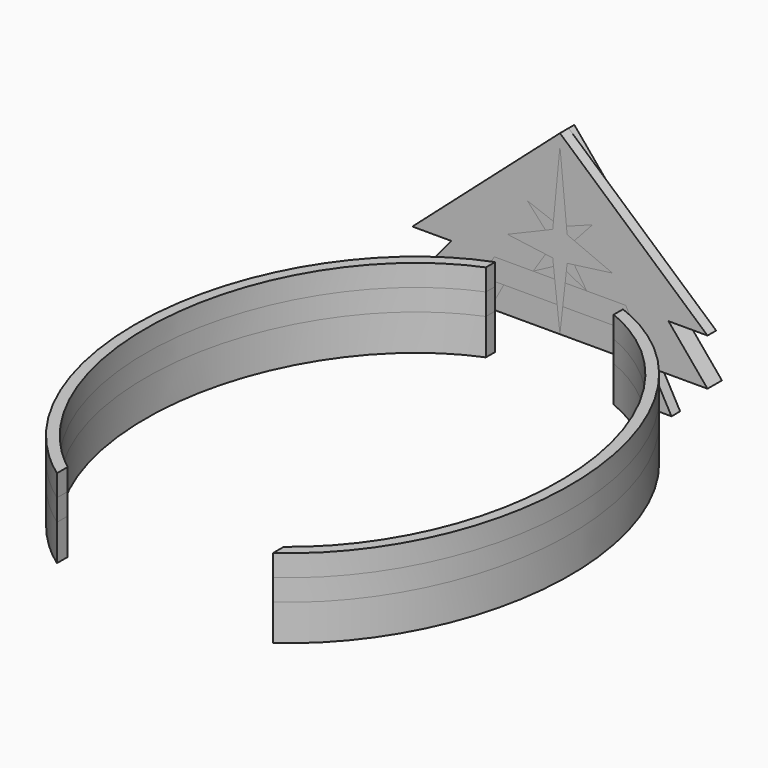
from build123d import *

# Parameters (mm, degrees)
F1_DEPTH  = 10
F7_DEPTH  = 5
F8_DEPTH  = 3
F9_DEPTH  = 4
F10_DEPTH = 7
F11_DEPTH = 6
F12_DEPTH = 4
F13_DEPTH = 6
F15_DEPTH = 6


with BuildPart() as f1:
    # F0 (on Top) → F1 (new body)
    with BuildSketch(Plane.XY):
        with BuildLine():
            Line((-17.75, 68.47415454), (-17.75, 71.6911115688))
            add(Edge.make_bspline(
                [(-17.75, 71.6911115688), (-151.0627337322, 20.8407686426), (-30, -65.103472923)],
                knots=[0.2981502682, 0.2981502682, 0.2981502682, 2.6220499403, 2.6220499403, 2.6220499403], degree=2, weights=[1, 0.3975511557, 1]))
            Line((-30, -65.103472923), (-30, -61.3935336829))
            add(Edge.make_bspline(
                [(-17.75, 68.47415454), (-136.2153733121, 20.1987311692), (-30, -61.3935336829)],
                knots=[0.3142453079, 0.3142453079, 0.3142453079, 2.5919054362, 2.5919054362, 2.5919054362], degree=2, weights=[1, 0.4186572608, 1]))
        make_face()
    extrude(amount=F1_DEPTH)


with BuildPart() as f1b:
    # F0 (on Top) → F1, piece 2 (new body)
    with BuildSketch(Plane.XY):
        with BuildLine():
            add(Edge.make_bspline(
                [(30, -65.103472923), (151.0627337322, 20.8407686426), (17.75, 71.6911115688)],
                knots=[3.6611353668, 3.6611353668, 3.6611353668, 5.985035039, 5.985035039, 5.985035039], degree=2, weights=[1, 0.3975511557, 1]))
            Line((17.75, 71.6911115688), (17.75, 68.47415454))
            add(Edge.make_bspline(
                [(30, -61.3935336829), (136.2153733121, 20.1987311692), (17.75, 68.47415454)],
                knots=[3.691279871, 3.691279871, 3.691279871, 5.9689399993, 5.9689399993, 5.9689399993], degree=2, weights=[1, 0.4186572608, 1]))
            Line((30, -61.3935336829), (30, -65.103472923))
        make_face()
    extrude(amount=F1_DEPTH)


with BuildPart() as f7:
    # F6 (on offset) → F7 (new body)
    with BuildSketch(Plane.XZ.offset(-72)):
        Polygon((-9.0242448117, 39.6896500617), (0, 56), (9.0242448117, 39.6896500617), (14.5570781634, 29.6896500617), (18.2583500607, 23), (21.5780500717, 17), (25.4510334179, 10), (40.9838667697, 10), (30.1451262437, 23), (0, 59.1561050594), (-30.1451262437, 23), (-40.9838667697, 10), (-25.4510334179, 10), (-21.5780500717, 17), (-18.2583500607, 23), (-14.5570781634, 29.6896500617), align=None)
    extrude(amount=-F7_DEPTH)

    # F6 (on offset) → F8 (join)
    with BuildSketch(Plane.XZ.offset(-72)):
        Polygon((0, 59.1561050594), (30.1451262437, 23), (40.9838667697, 23), align=None)
        Polygon((-40.9838667697, 23), (-30.1451262437, 23), (0, 59.1561050594), align=None)
        Polygon((18.2583500607, 23), (14.5570781634, 29.6896500617), (4, 28.2691151619), (7.4444444444, 23), align=None)
        Polygon((14.5570781634, 29.6896500617), (9.0242448117, 39.6896500617), (4, 34.1542061188), align=None)
        Polygon((9.0242448117, 39.6896500617), (0, 56), (1.8103818147, 36.9909909452), align=None)
        Polygon((-1.8103818147, 36.9909909452), (0, 56), (-9.0242448117, 39.6896500617), align=None)
        Polygon((-4, 34.1542061188), (-9.0242448117, 39.6896500617), (-14.5570781634, 29.6896500617), align=None)
        Polygon((-4, 28.2691151619), (-14.5570781634, 29.6896500617), (-18.2583500607, 23), (-7.4444444444, 23), align=None)
        Polygon((25.4510334179, 10), (21.5780500717, 17), (15.5780500717, 17), (19.4510334179, 10), (24.9838667697, 0), (30.9838667697, 0), align=None)
        Polygon((-15.5780500717, 17), (-21.5780500717, 17), (-25.4510334179, 10), (-30.9838667697, 0), (-24.9838667697, 0), (-19.4510334179, 10), align=None)
    extrude(amount=-F8_DEPTH)

    # F6 (on offset) → F8, piece 2 (join)
    with BuildSketch(Plane.XZ.offset(-72)):
        Polygon((1.4444444444, 23), (7.4444444444, 23), (1.7777777778, 26), align=None)
    extrude(amount=-F8_DEPTH)

    # F6 (on offset) → F8, piece 3 (join)
    with BuildSketch(Plane.XZ.offset(-72)):
        Polygon((-1.7777777778, 26), (-7.4444444444, 23), (-1.4444444444, 23), align=None)
    extrude(amount=-F8_DEPTH)


with BuildPart() as f9:
    # F6 (on offset) → F9 (new body)
    with BuildSketch(Plane.XZ.offset(-72)):
        Polygon((21.5780500717, 17), (18.2583500607, 23), (7.4444444444, 23), (1.4444444444, 23), (0.7777777778, 17), (15.5780500717, 17), align=None)
    extrude(amount=-F9_DEPTH)


with BuildPart() as f9b:
    # F6 (on offset) → F9, piece 2 (new body)
    with BuildSketch(Plane.XZ.offset(-72)):
        Polygon((-7.4444444444, 23), (-18.2583500607, 23), (-21.5780500717, 17), (-15.5780500717, 17), (-0.7777777778, 17), (-1.4444444444, 23), align=None)
    extrude(amount=-F9_DEPTH)


with BuildPart() as f10:
    # F6 (on offset) → F10 (new body)
    with BuildSketch(Plane.XZ.offset(-72)):
        Polygon((1.8103818147, 36.9909909452), (0, 56), (-1.8103818147, 36.9909909452), (-2, 35), (-4, 34.1542061188), (-14.5570781634, 29.6896500617), (-4, 28.2691151619), (-2, 28), (-1.7777777778, 26), (-1.4444444444, 23), (0, 23), (1.4444444444, 23), (1.7777777778, 26), (2, 28), (2, 35), align=None)
        Polygon((4, 28.2691151619), (14.5570781634, 29.6896500617), (4, 34.1542061188), (2, 35), (2, 28), align=None)
        Polygon((0.7777777778, 17), (1.4444444444, 23), (0, 23), (-1.4444444444, 23), (-0.7777777778, 17), (0, 17), align=None)
        Polygon((0, 10), (0.7777777778, 17), (0, 17), (-0.7777777778, 17), align=None)
    extrude(amount=-F10_DEPTH)


with BuildPart() as f11:
    # F6 (on offset) → F11 (new body)
    with BuildSketch(Plane.XZ.offset(-72)):
        Polygon((4, 34.1542061188), (9.0242448117, 39.6896500617), (1.8103818147, 36.9909909452), (2, 35), align=None)
    extrude(amount=-F11_DEPTH)


with BuildPart() as f11b:
    # F6 (on offset) → F11, piece 2 (new body)
    with BuildSketch(Plane.XZ.offset(-72)):
        Polygon((7.4444444444, 23), (4, 28.2691151619), (2, 28), (1.7777777778, 26), align=None)
    extrude(amount=-F11_DEPTH)


with BuildPart() as f11c:
    # F6 (on offset) → F11, piece 3 (new body)
    with BuildSketch(Plane.XZ.offset(-72)):
        Polygon((-2, 28), (-4, 28.2691151619), (-7.4444444444, 23), (-1.7777777778, 26), align=None)
    extrude(amount=-F11_DEPTH)


with BuildPart() as f11d:
    # F6 (on offset) → F11, piece 4 (new body)
    with BuildSketch(Plane.XZ.offset(-72)):
        Polygon((-2, 35), (-1.8103818147, 36.9909909452), (-9.0242448117, 39.6896500617), (-4, 34.1542061188), align=None)
    extrude(amount=-F11_DEPTH)


with BuildPart() as f12:
    # F6 (on offset) → F12 (new body)
    with BuildSketch(Plane.XZ.offset(-72)):
        Polygon((19.4510334179, 10), (15.5780500717, 17), (0.7777777778, 17), (0, 10), align=None)
    extrude(amount=-F12_DEPTH)


with BuildPart() as f12b:
    # F6 (on offset) → F12, piece 2 (new body)
    with BuildSketch(Plane.XZ.offset(-72)):
        Polygon((-0.7777777778, 17), (-15.5780500717, 17), (-19.4510334179, 10), (0, 10), align=None)
    extrude(amount=-F12_DEPTH)


with BuildPart() as f13:
    # F4 (on offset) → F13 (new body)
    with BuildSketch(Plane.XY.offset(10)):
        with BuildLine():
            add(Edge.make_bspline(
                [(30, -65.103472923), (151.0627337322, 20.8407686426), (17.75, 71.6911115688)],
                knots=[3.6611353668, 3.6611353668, 3.6611353668, 5.985035039, 5.985035039, 5.985035039], degree=2, weights=[1, 0.3975511557, 1]))
            Line((17.75, 71.6911115688), (17.75, 68.47415454))
            add(Edge.make_bspline(
                [(30, -61.3935336829), (136.2153733121, 20.1987311692), (17.75, 68.47415454)],
                knots=[3.691279871, 3.691279871, 3.691279871, 5.9689399993, 5.9689399993, 5.9689399993], degree=2, weights=[1, 0.4186572608, 1]))
            Line((30, -61.3935336829), (30, -65.103472923))
        make_face()
    extrude(amount=F13_DEPTH)


with BuildPart() as f13b:
    # F4 (on offset) → F13, piece 2 (new body)
    with BuildSketch(Plane.XY.offset(10)):
        with BuildLine():
            Line((-17.75, 68.47415454), (-17.75, 71.6911115688))
            add(Edge.make_bspline(
                [(-17.75, 71.6911115688), (-151.0627337322, 20.8407686426), (-30, -65.103472923)],
                knots=[0.2981502682, 0.2981502682, 0.2981502682, 2.6220499403, 2.6220499403, 2.6220499403], degree=2, weights=[1, 0.3975511557, 1]))
            Line((-30, -65.103472923), (-30, -61.3935336829))
            add(Edge.make_bspline(
                [(-17.75, 68.47415454), (-136.2153733121, 20.1987311692), (-30, -61.3935336829)],
                knots=[0.3142453079, 0.3142453079, 0.3142453079, 2.5919054362, 2.5919054362, 2.5919054362], degree=2, weights=[1, 0.4186572608, 1]))
        make_face()
    extrude(amount=F13_DEPTH)


with BuildPart() as f15:
    # F14 (on offset) → F15 (new body)
    with BuildSketch(Plane.XY.offset(16)):
        with BuildLine():
            Line((-17.75, 68.47415454), (-17.75, 71.6911115688))
            add(Edge.make_bspline(
                [(-17.75, 71.6911115688), (-151.0627337322, 20.8407686426), (-30, -65.103472923)],
                knots=[0.2981502682, 0.2981502682, 0.2981502682, 2.6220499403, 2.6220499403, 2.6220499403], degree=2, weights=[1, 0.3975511557, 1]))
            Line((-30, -65.103472923), (-30, -61.3935336829))
            add(Edge.make_bspline(
                [(-17.75, 68.47415454), (-136.2153733121, 20.1987311692), (-30, -61.3935336829)],
                knots=[0.3142453079, 0.3142453079, 0.3142453079, 2.5919054362, 2.5919054362, 2.5919054362], degree=2, weights=[1, 0.4186572608, 1]))
        make_face()
    extrude(amount=F15_DEPTH)


with BuildPart() as f15b:
    # F14 (on offset) → F15, piece 2 (new body)
    with BuildSketch(Plane.XY.offset(16)):
        with BuildLine():
            add(Edge.make_bspline(
                [(30, -65.103472923), (151.0627337322, 20.8407686426), (17.75, 71.6911115688)],
                knots=[3.6611353668, 3.6611353668, 3.6611353668, 5.985035039, 5.985035039, 5.985035039], degree=2, weights=[1, 0.3975511557, 1]))
            Line((17.75, 71.6911115688), (17.75, 68.47415454))
            add(Edge.make_bspline(
                [(30, -61.3935336829), (136.2153733121, 20.1987311692), (17.75, 68.47415454)],
                knots=[3.691279871, 3.691279871, 3.691279871, 5.9689399993, 5.9689399993, 5.9689399993], degree=2, weights=[1, 0.4186572608, 1]))
            Line((30, -61.3935336829), (30, -65.103472923))
        make_face()
    extrude(amount=F15_DEPTH)


solid = Compound([f1.part, f1b.part, f7.part, f9.part, f9b.part, f10.part, f11.part, f11b.part, f11c.part, f11d.part, f12.part, f12b.part, f13.part, f13b.part, f15.part, f15b.part])
